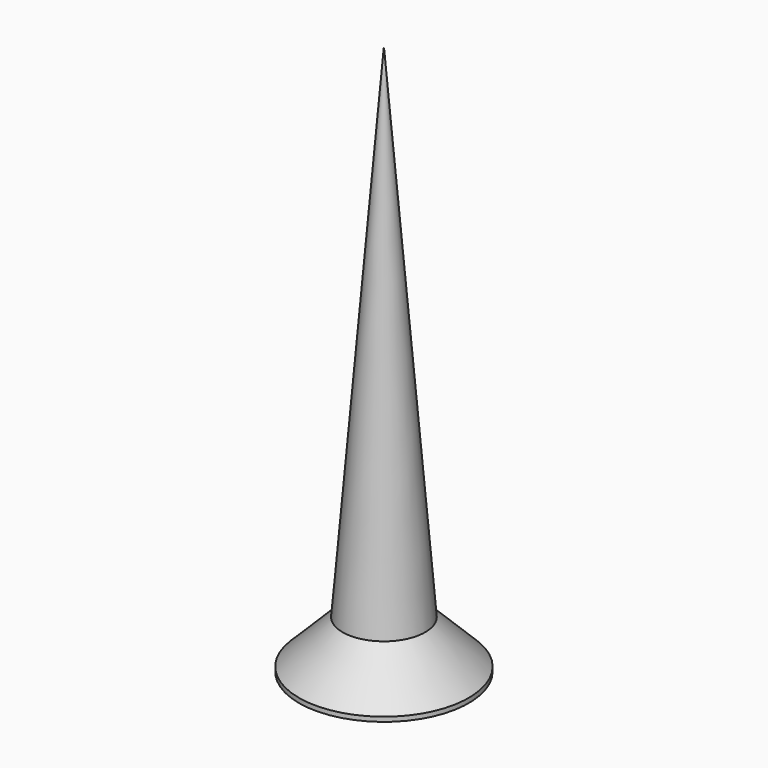
from build123d import *

# Parameters (mm, degrees)
POCKET004_DEPTH         = 0.2
POLARPATTERN004_COUNT   = 2
POLARPATTERN004_ANGLE   = 90
BODY008_PLACEMENT_ANGLE = 180


with BuildPart() as part:
    # Sketch016 → Revolution004 (revolve)
    with BuildSketch(Plane.XZ):
        Polygon((0, 0), (0, -12), (0.9, -1.05), (1.85, -0.1), (1.85, 0), align=None)
    revolve(axis=Axis((0, 0, 0), (0, 0, 1)))

    # Sketch015 → Pocket004 (cut, symmetric)
    with BuildSketch(Plane.XZ):
        Polygon((-1.15, 0), (0, -1.15), (1.15, 0), align=None)
    pocket004 = extrude(amount=POCKET004_DEPTH, both=True, mode=Mode.SUBTRACT)

    # PolarPattern004: Pocket004 ×2 about axis
    polarpattern004_axis = Axis((0, 0, 0), (0, 0, 1))
    for i in range(1, POLARPATTERN004_COUNT):
        add(pocket004.rotate(polarpattern004_axis, i * POLARPATTERN004_ANGLE / (POLARPATTERN004_COUNT - 1)), mode=Mode.SUBTRACT)


with BuildPart() as part_1:
    # Body008 placement: moved
    add(part.part.moved(Location((-25, -19, -22))).rotate(Axis((-25, -19, -22), (0, 1, 0)), BODY008_PLACEMENT_ANGLE))


solid = part_1.part
